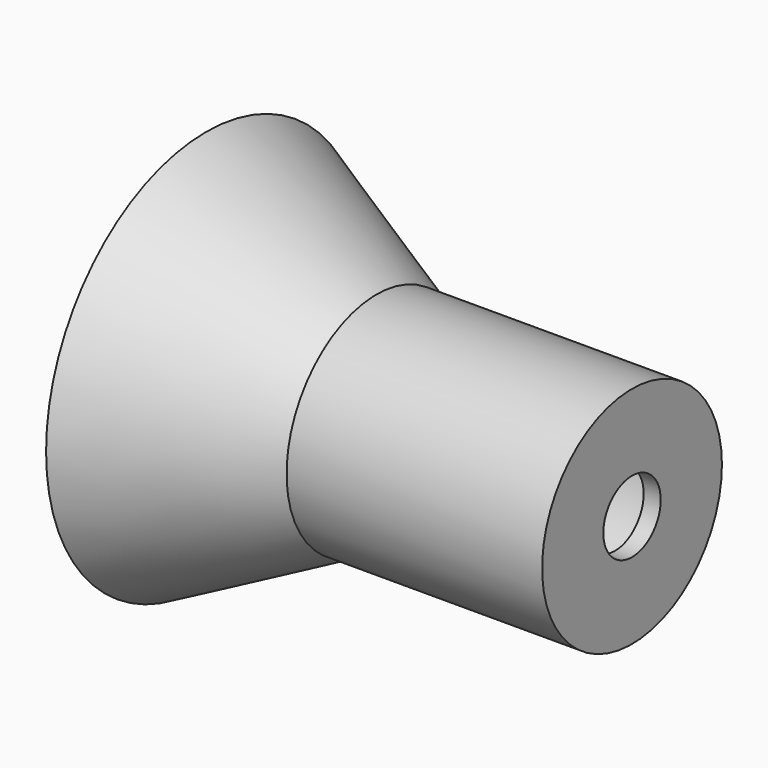
from build123d import *

# Parameters (mm, degrees)
F0_R      = 16.755355229
F1_DEPTH  = 38.1
F1_FACE_R = 16.755355229
F3_R      = 29.8317515967
F5_T      = -2.54
F6_R      = 5.3463872414
F7_DEPTH  = 25.4
F8_R      = 7.4645289375
F9_DEPTH  = 7.62


with BuildPart() as f1:
    # F0 (on Right) → F1 (new body)
    with BuildSketch(Plane.YZ):
        Circle(F0_R)
    extrude(amount=F1_DEPTH)

    # F1_face (on face) → F4 section 0
    with BuildSketch(Plane(origin=(0, 0, 0), x_dir=(0, 1, 0), z_dir=(-1, 0, 0))):
        Circle(F1_FACE_R)
    # F3 (on offset) → F4 section 1
    with BuildSketch(Plane.YZ.offset(-25.4)):
        Circle(F3_R)
    loft()

    # F5
    f5_openings = [f1.faces().sort_by_distance(p)[0] for p in [
        (-25.4, 0, 0),
    ]]
    offset(amount=F5_T, openings=f5_openings, kind=Kind.INTERSECTION)

    # F6 (on face) → F7 (cut)
    with BuildSketch(Plane.YZ.offset(38.1)):
        Circle(F6_R)
    extrude(amount=-F7_DEPTH, mode=Mode.SUBTRACT)


with BuildPart() as f9:
    # F8 (on Right) → F9 (new body)
    with BuildSketch(Plane.YZ):
        Circle(F8_R)
    extrude(amount=-F9_DEPTH)


solid = Compound([f1.part, f9.part])
